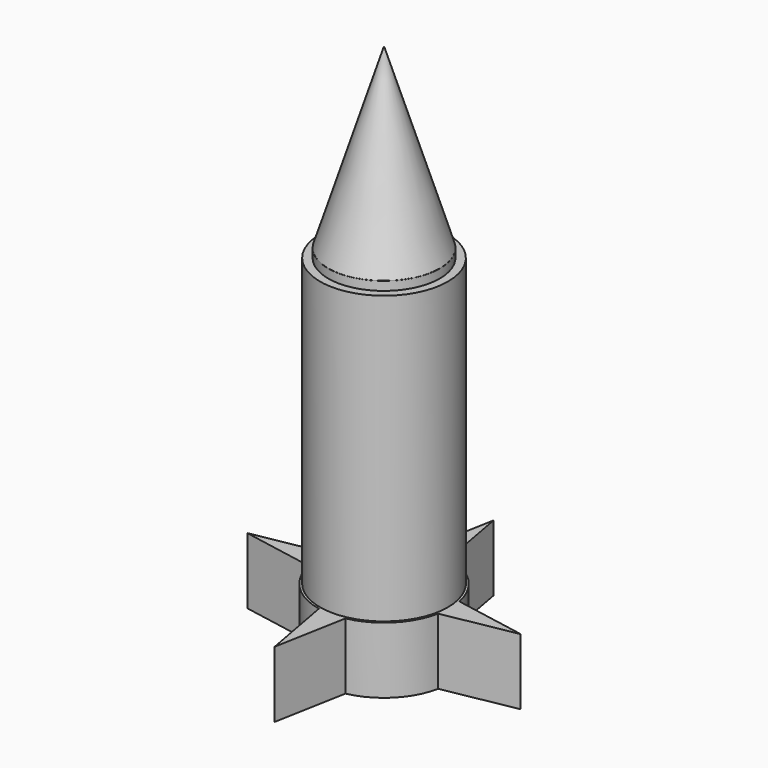
from build123d import *

# Parameters (mm, degrees)
F1_DEPTH = 19.05
F2_R     = 18.415
F3_DEPTH = 101.6
F4_R     = 16.0624803324
F5_DEPTH = 104.14


with BuildPart() as f1:
    # F0 (on Top) → F1 (new body)
    with BuildSketch(Plane.XY):
        with BuildLine():
            ThreePointArc((-18.66511184, -3.81), (-19.05, 0), (-18.66511184, 3.81))
            Line((-18.66511184, 3.81), (-39.37, 0))
            Line((-39.37, 0), (-18.66511184, -3.81))
        make_face()
        with BuildLine():
            ThreePointArc((18.66511184, -3.81), (18.9535337147, -1.9146957262), (19.05, 0))
            ThreePointArc((19.05, 0), (18.9535337147, 1.9146957262), (18.66511184, 3.81))
            ThreePointArc((18.66511184, 3.81), (13.4703841816, 13.4703841816), (3.81, 18.66511184))
            ThreePointArc((3.81, 18.66511184), (0, 19.05), (-3.81, 18.66511184))
            ThreePointArc((-3.81, 18.66511184), (-13.4703841816, 13.4703841816), (-18.66511184, 3.81))
            ThreePointArc((-18.66511184, 3.81), (-19.05, 0), (-18.66511184, -3.81))
            ThreePointArc((-18.66511184, -3.81), (-13.4703841816, -13.4703841816), (-3.81, -18.66511184))
            ThreePointArc((-3.81, -18.66511184), (0, -19.05), (3.81, -18.66511184))
            ThreePointArc((3.81, -18.66511184), (13.4703841816, -13.4703841816), (18.66511184, -3.81))
        make_face()
        with BuildLine():
            Line((0, -39.37), (3.81, -18.66511184))
            ThreePointArc((3.81, -18.66511184), (0, -19.05), (-3.81, -18.66511184))
            Line((-3.81, -18.66511184), (0, -39.37))
        make_face()
        with BuildLine():
            ThreePointArc((18.66511184, 3.81), (18.9535337147, 1.9146957262), (19.05, 0))
            ThreePointArc((19.05, 0), (18.9535337147, -1.9146957262), (18.66511184, -3.81))
            Line((18.66511184, -3.81), (39.37, 0))
            Line((39.37, 0), (18.66511184, 3.81))
        make_face()
        with BuildLine():
            ThreePointArc((-3.81, 18.66511184), (0, 19.05), (3.81, 18.66511184))
            Line((3.81, 18.66511184), (0, 39.37))
            Line((0, 39.37), (-3.81, 18.66511184))
        make_face()
    extrude(amount=F1_DEPTH)

    # F2 (on Top) → F3 (join)
    with BuildSketch(Plane.XY):
        Circle(F2_R)
    extrude(amount=F3_DEPTH)

    # F4 (on Top) → F5 (join)
    with BuildSketch(Plane.XY):
        Circle(F4_R)
    extrude(amount=F5_DEPTH)


with BuildPart() as f7:
    # F6 (on Right) → F7 (revolve)
    with BuildSketch(Plane.YZ):
        Polygon((0.0163093209, 104.1741073132), (0, 155.2990376949), (-16.0525236279, 104.1741073132), align=None)
    revolve(axis=Axis((0, 0.0081546605, 129.736572504), (0, 0.0003190091, -0.9999999491)))


solid = Compound([f1.part, f7.part])
